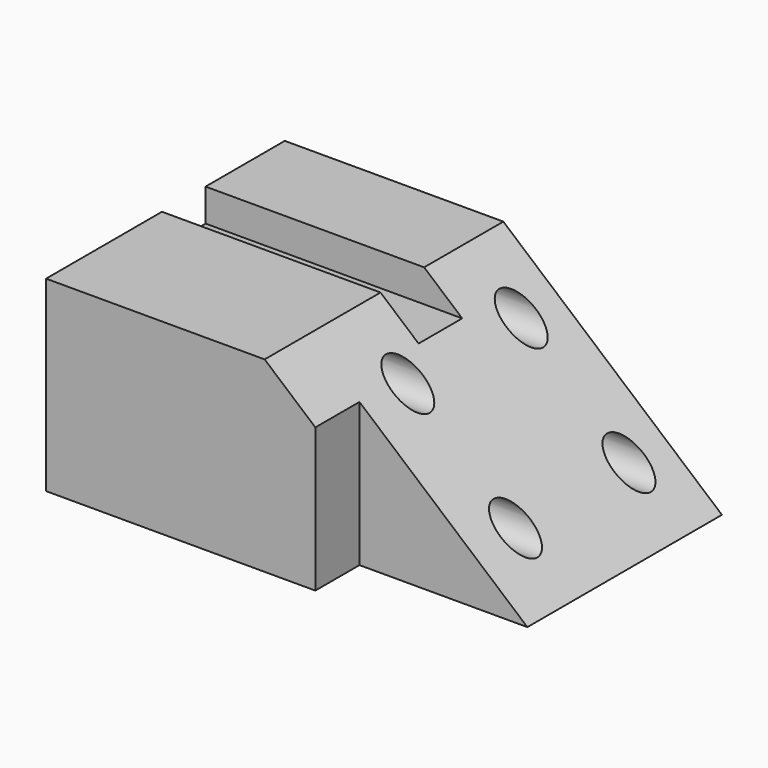
from build123d import *

# Parameters (mm, degrees)
F0_W      = 118.7055855989
F0_H      = 68.5793161392
F1_DEPTH  = 50.8
F2_R      = 5.08
F2_R_2    = 5.0799985524
F3_DEPTH  = 101.6
F4_DEPTH  = 12.446
F5_DEPTH  = 82.042
F7_DEPTH  = 187.96
F9_DEPTH  = 14.986
F10_W     = 14.8076536134
F10_H     = 8.8449797213
F11_DEPTH = 191.262


with BuildPart() as f1:
    # F0 (on Top) → F1 (new body)
    with BuildSketch(Plane.XY):
        Rectangle(F0_W, F0_H)
    extrude(amount=F1_DEPTH)

    # F2 (on face) → F3 (cut)
    with BuildSketch(Plane.YZ.offset(59.3527927995)):
        with Locations((-17.0466899602, 12.81891503)):
            Circle(F2_R)
        with Locations((21.4545419486, 12.81891503)):
            Circle(F2_R_2)
        with Locations((21.4545419486, 37.8581796117)):
            Circle(F2_R)
        with Locations((-17.0466899602, 37.8581796117)):
            Circle(F2_R)
    extrude(amount=-F3_DEPTH, mode=Mode.SUBTRACT)

    # F4 (add): a face of the model
    f4_faces = [f1.faces().sort_by_distance(p)[0] for p in [
        (0, -34.2896580696, 25.4),
    ]]
    extrude(f4_faces, amount=F4_DEPTH)

    # F5 (cut): faces of the model
    f5_faces = [f1.faces().sort_by_distance(p)[0] for p in [
        (-42.2472072005, -17.0466899602, 37.8581796117),
        (-42.2472072005, 21.4545419486, 12.81891503),
        (-42.2472072005, -17.0466899602, 12.81891503),
        (-42.2472072005, 21.4545419486, 37.8581796117),
    ]]
    extrude(f5_faces, amount=-F5_DEPTH, mode=Mode.SUBTRACT)

    # F6 (on face) → F7 (cut)
    with BuildSketch(Plane.XZ.offset(46.7356580696)):
        Polygon((59.3527927995, 50.8), (0, 50.8), (59.3527927995, 0), align=None)
    extrude(amount=-F7_DEPTH, mode=Mode.SUBTRACT)

    # F8 (on face) → F9 (cut)
    with BuildSketch(Plane.XZ.offset(46.7356580696)):
        Polygon((59.3527927995, 0), (13.7639556508, 39.0194431959), (13.7639556508, 0), align=None)
    extrude(amount=-F9_DEPTH, mode=Mode.SUBTRACT)

    # F10 (on face) → F11 (cut)
    with BuildSketch(Plane(origin=(-59.3527927995, 0, 0), x_dir=(0, -1, 0), z_dir=(-1, 0, 0))):
        with Locations((0, 46.3775101393)):
            Rectangle(F10_W, F10_H)
        with Locations((0, 55.2224898607)):
            Rectangle(F10_W, F10_H)
    extrude(amount=-F11_DEPTH, mode=Mode.SUBTRACT)


solid = f1.part
